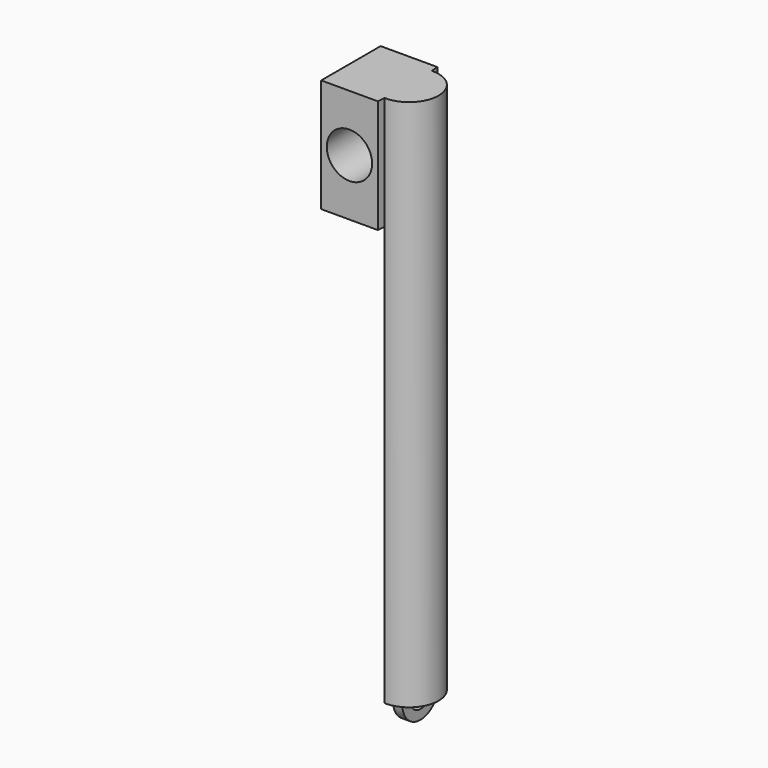
from build123d import *

# Parameters (mm, degrees)
F1_DEPTH  = 59.69
F3_DEPTH  = 12.7
F5_R      = 2.54
F6_DEPTH  = 25.4
F8_DEPTH  = 52.07
F9_W      = 75.692
F9_H      = 5.588
F10_DEPTH = 25.4


with BuildPart() as f1:
    # F0 (on Top) → F1 (new body)
    with BuildSketch(Plane.XY):
        with BuildLine():
            ThreePointArc((50.692685, 3.300256), (50.8, 0), (50.692685, -3.300256))
            ThreePointArc((50.692685, -3.300256), (54.102, 0), (50.692685, 3.300256))
        make_face()
    extrude(amount=F1_DEPTH)

    # F2 (on face) → F3 (join)
    with BuildSketch(Plane.XY.offset(59.69)):
        with BuildLine():
            Line((44.27921, -4.162097), (50.62921, -4.162097))
            ThreePointArc((50.62921, -4.162097), (50.8, 0), (50.62921, 4.162097))
            Line((50.62921, 4.162097), (44.27921, 4.162097))
            Line((44.27921, 4.162097), (44.27921, -4.162097))
        make_face()
    extrude(amount=-F3_DEPTH)

    # F5 (on face) → F6 (cut)
    with BuildSketch(Plane(origin=(0, 4.162097, 0), x_dir=(-1, 0, 0), z_dir=(0, 1, 0))):
        with Locations((-47.445018, 53.337224)):
            Circle(F5_R)
    extrude(amount=-F6_DEPTH, mode=Mode.SUBTRACT)

    # F7 (on Right) → F8 (join)
    with BuildSketch(Plane.YZ):
        with BuildLine():
            ThreePointArc((1.46637, 0), (0, -1.46637), (-1.46637, 0))
            Line((-1.46637, 0), (-2.54, 0))
            ThreePointArc((-2.54, 0), (0, -2.54), (2.54, 0))
            Line((2.54, 0), (1.46637, 0))
        make_face()
    extrude(amount=F8_DEPTH)

    # F9 (on Top) → F10 (cut)
    with BuildSketch(Plane.XY):
        with Locations((13.186903, 0.036883)):
            Rectangle(F9_W, F9_H)
    extrude(amount=-F10_DEPTH, mode=Mode.SUBTRACT)


solid = f1.part
